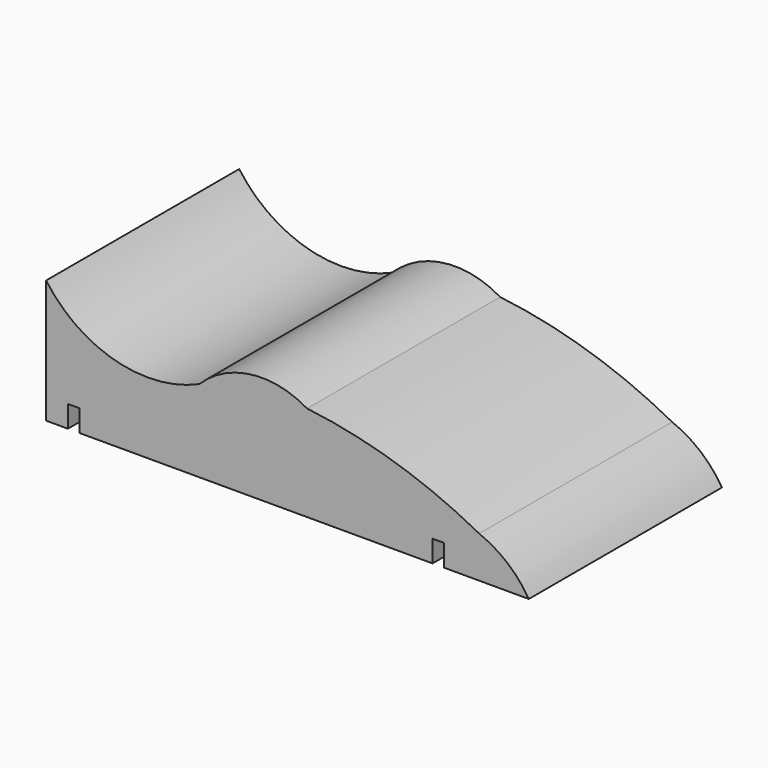
from build123d import *

# Parameters (mm, degrees)
F1_DEPTH = 37.084


with BuildPart() as f1:
    # F0 (on Front) → F1 (new body)
    with BuildSketch(Plane.XZ):
        with BuildLine():
            ThreePointArc((12.942736, 6.234619), (0.035532, 5.21526), (-10.607814, 12.58779))
            Line((-10.607814, 12.58779), (-10.607814, -6.373834))
            Line((-10.607814, -6.373834), (-7.256928, -6.373834))
            Line((-7.256928, -6.373834), (-7.256928, -3.021034))
            Line((-7.256928, -3.021034), (-5.504328, -3.021034))
            Line((-5.504328, -3.021034), (-5.504328, -6.373834))
            Line((-5.504328, -6.373834), (48.761478, -6.373834))
            Line((48.761478, -6.373834), (48.761478, -3.021034))
            Line((48.761478, -3.021034), (50.546074, -3.021034))
            Line((50.546074, -3.021034), (50.546074, -6.373834))
            Line((50.546074, -6.373834), (60.481984, -6.373834))
            Line((60.481984, -6.373834), (63.549221, -6.373834))
            ThreePointArc((63.549221, -6.373834), (60.255035, -2.563114), (55.918712, 0))
            ThreePointArc((55.918712, 0), (43.08963, 5.393993), (29.482889, 8.31583))
            ThreePointArc((29.482889, 8.31583), (20.855773, 10.112752), (12.942736, 6.234619))
        make_face()
    extrude(amount=F1_DEPTH)


solid = f1.part
